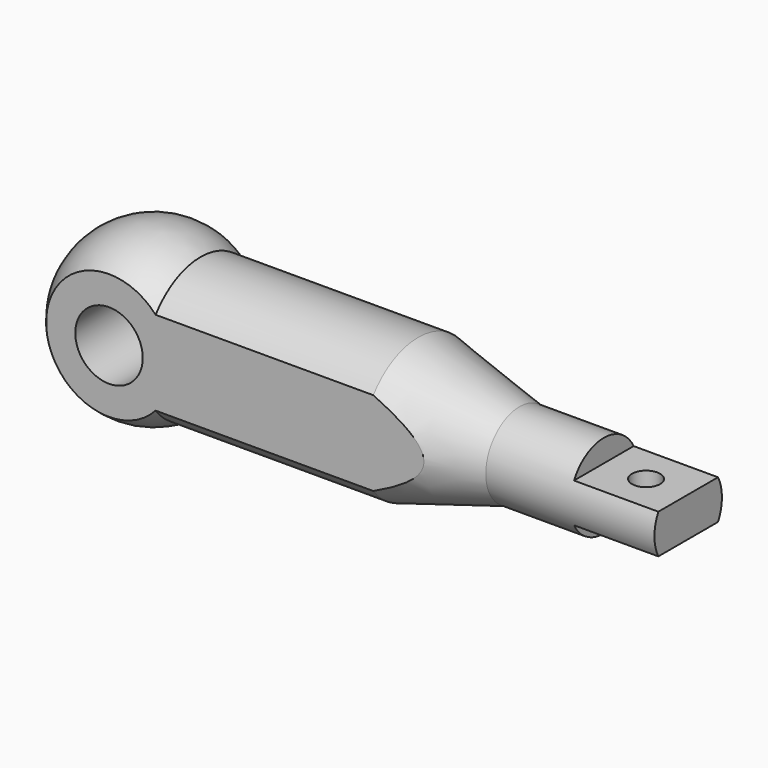
from build123d import *

# Parameters (mm, degrees)
F2_W          = 15
F2_H          = 4
F3_DEPTH      = 15.001
F3_DEPTH_BACK = 15.001
F5_DEPTH      = 110.001
F6_R          = 6
F7_DEPTH      = 20.001
F8_R          = 2.5
F9_DEPTH      = 18.501


with BuildPart() as f1:
    # F0 (on Front) → F1 (revolve)
    with BuildSketch(Plane.XZ):
        with BuildLine():
            ThreePointArc((8.2915619759, 12.5), (-7.0931858273, 13.2169101843), (-15, 0))
            Line((-15, 0), (95, 0))
            Line((95, 0), (95, 7.5))
            Line((95, 7.5), (65, 7.5))
            Line((65, 7.5), (47, 12.5))
            Line((47, 12.5), (8.2915619759, 12.5))
        make_face()
    revolve(axis=Axis((74.1721504726, 0, 0), (1, 0, 0)))

    # F2 (on Front) → F3 (cut, two sides)
    with BuildSketch(Plane.XZ) as f3_sk:
        with Locations((87.5, 5.5)):
            Rectangle(F2_W, F2_H)
        with Locations((87.5, -5.5)):
            Rectangle(F2_W, F2_H)
    extrude(amount=-F3_DEPTH, mode=Mode.SUBTRACT)
    extrude(f3_sk.sketch, amount=F3_DEPTH_BACK, mode=Mode.SUBTRACT)

    # F4 (on face) → F5 (cut, through all)
    with BuildSketch(Plane.YZ.offset(95)):
        with BuildLine():
            Line((-10, -11.1803398875), (-10, 11.1803398875))
            ThreePointArc((-10, 11.1803398875), (-15, 0), (-10, -11.1803398875))
        make_face()
        with BuildLine():
            ThreePointArc((10, -11.1803398875), (15, 0), (10, 11.1803398875))
            Line((10, 11.1803398875), (10, -11.1803398875))
        make_face()
    extrude(amount=-F5_DEPTH, mode=Mode.SUBTRACT)

    # F6 (on face) → F7 (cut, through all)
    with BuildSketch(Plane.XZ.offset(10)):
        Circle(F6_R)
    extrude(amount=-F7_DEPTH, mode=Mode.SUBTRACT)

    # F8 (on face) → F9 (cut, through all)
    with BuildSketch(Plane.XY.offset(3.5)):
        with Locations((87.5, 0)):
            Circle(F8_R)
    extrude(amount=-F9_DEPTH, mode=Mode.SUBTRACT)


solid = f1.part
